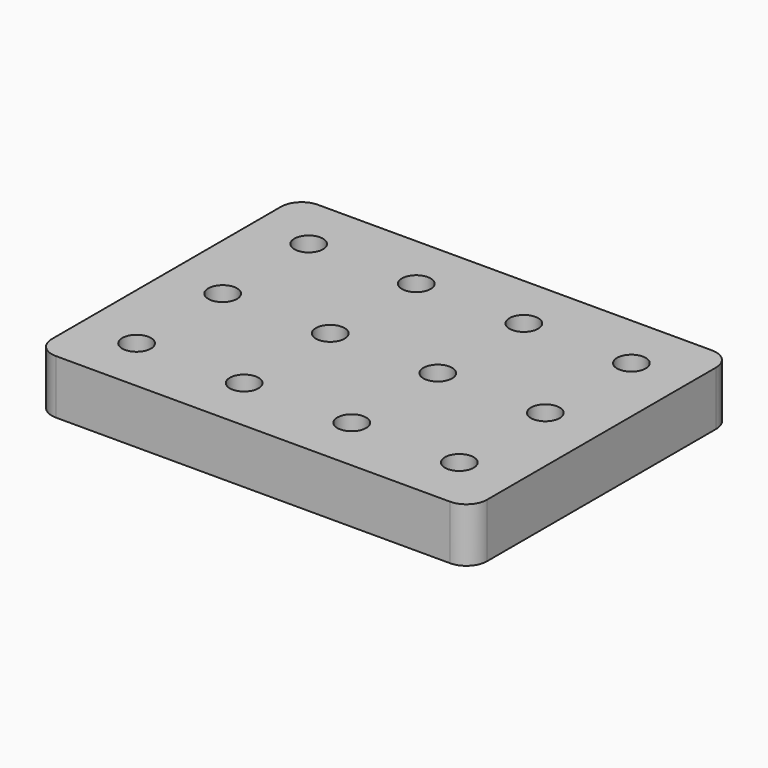
from build123d import *

# Parameters (mm, degrees)
F2_DEPTH = 6.6
F4_R     = 3.5
F5_DEPTH = 7


with BuildPart() as f2:
    # F0 (on Top) → F2 (new body, symmetric)
    with BuildSketch(Plane.XY):
        with BuildLine():
            Line((-48, -39.9), (48, -39.9))
            ThreePointArc((48, -39.9), (51.535534, -38.435534), (53, -34.9))
            Line((53, -34.9), (53, 34.9))
            ThreePointArc((53, 34.9), (51.535534, 38.435534), (48, 39.9))
            Line((48, 39.9), (-48, 39.9))
            ThreePointArc((-48, 39.9), (-51.535534, 38.435534), (-53, 34.9))
            Line((-53, 34.9), (-53, -34.9))
            ThreePointArc((-53, -34.9), (-51.535534, -38.435534), (-48, -39.9))
        make_face()
    extrude(amount=F2_DEPTH, both=True)

    # F4 (on face) → F5 (cut)
    with BuildSketch(Plane.XY.offset(6.6)):
        with Locations((-39.3, 26.2)):
            Circle(F4_R)
        with Locations((-13.1, 26.2)):
            Circle(F4_R)
        with Locations((13.1, 26.2)):
            Circle(F4_R)
        with Locations((39.3, 26.2)):
            Circle(F4_R)
        with Locations((39.3, 0)):
            Circle(F4_R)
        with Locations((13.1, 0)):
            Circle(F4_R)
        with Locations((-13.1, 0)):
            Circle(F4_R)
        with Locations((-39.3, 0)):
            Circle(F4_R)
        with Locations((-39.3, -26.2)):
            Circle(F4_R)
        with Locations((-13.1, -26.2)):
            Circle(F4_R)
        with Locations((13.1, -26.2)):
            Circle(F4_R)
        with Locations((39.3, -26.2)):
            Circle(F4_R)
    extrude(amount=-F5_DEPTH, mode=Mode.SUBTRACT)


solid = f2.part
